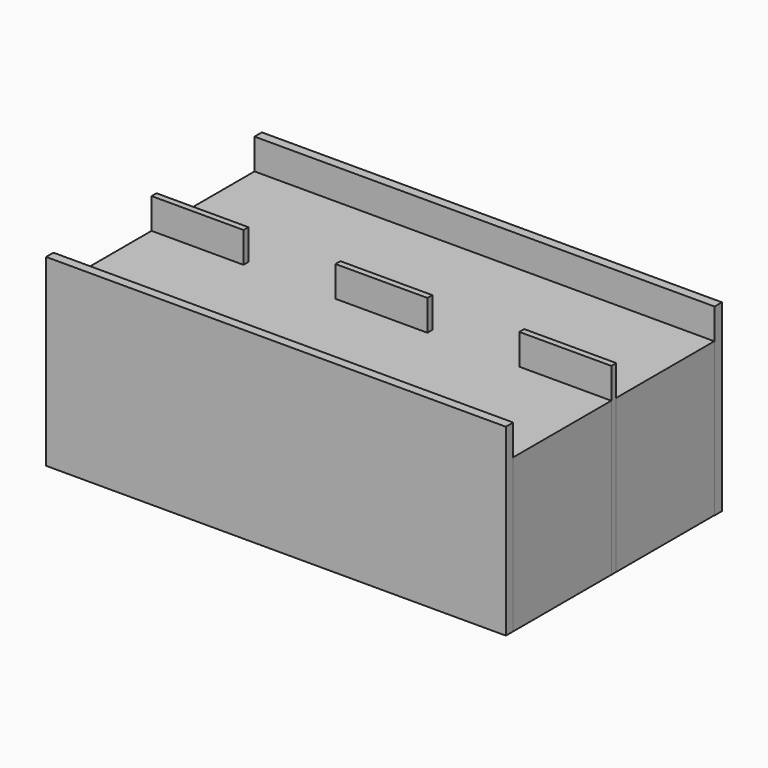
from build123d import *

# Parameters (mm, degrees)
F0_W     = 3
F0_H     = 0.2
F1_DEPTH = 5
F0_W_2   = 15
F0_H_2   = 0.3
F2_DEPTH = 6


with BuildPart() as f1:
    # F0 (on Top) → F1 (new body)
    with BuildSketch(Plane.XY):
        Polygon((0, 8.2), (0, 4.2), (3, 4.2), (6, 4.2), (9, 4.2), (12, 4.2), (15, 4.2), (15, 8.2), align=None)
        with Locations((4.5, 4.1)):
            Rectangle(F0_W, F0_H)
        Polygon((3, 4), (0, 4), (0, 0), (15, 0), (15, 4), (12, 4), (9, 4), (6, 4), align=None)
        with Locations((10.5, 4.1)):
            Rectangle(F0_W, F0_H)
    extrude(amount=F1_DEPTH)


with BuildPart() as f2:
    # F0 (on Top) → F2 (new body)
    with BuildSketch(Plane.XY):
        Polygon((0, 8.5), (0, 8.2), (15, 8.2), (15.008465, 8.2), (15.008465, 8.5), align=None)
        with Locations((1.5, 4.1)):
            Rectangle(F0_W, F0_H)
        with Locations((7.5, 4.1)):
            Rectangle(F0_W, F0_H)
        with Locations((13.5, 4.1)):
            Rectangle(F0_W, F0_H)
        with Locations((7.5, -0.15)):
            Rectangle(F0_W_2, F0_H_2)
    extrude(amount=F2_DEPTH)


solid = Compound([f1.part, f2.part])
